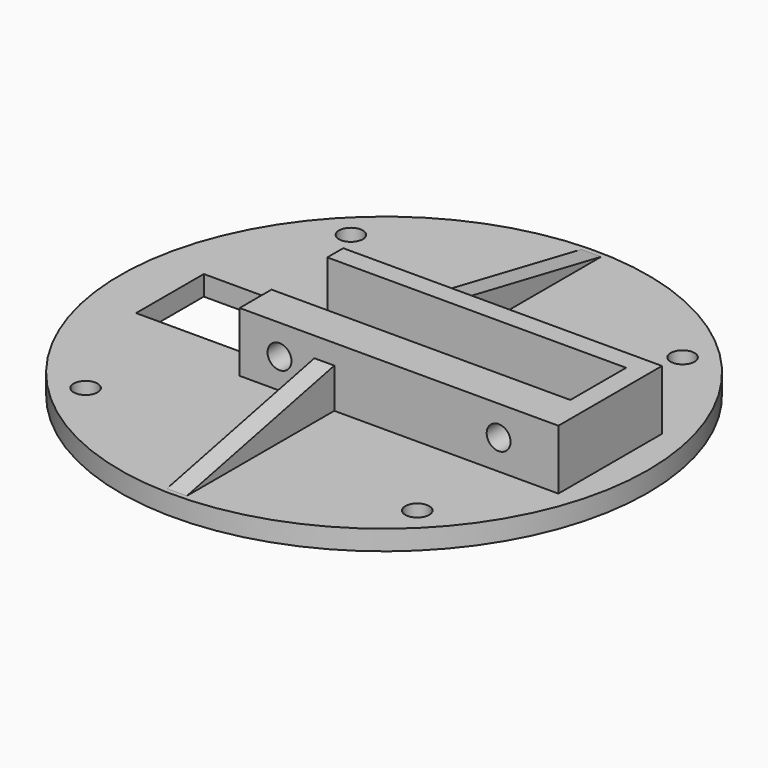
from build123d import *

# Parameters (mm, degrees)
F0_R     = 26.5
F0_R_2   = 1.2
F0_W     = 13
F0_H     = 8.5
F1_DEPTH = 2
F3_DEPTH = 6
F5_DEPTH = 1
F6_R     = 1.2
F7_DEPTH = 4


with BuildPart() as f1:
    # F0 (on Top) → F1 (new body)
    with BuildSketch(Plane.XY):
        Circle(F0_R)
        with Locations((-16.65, -16.65)):
            Circle(F0_R_2, mode=Mode.SUBTRACT)
        with Locations((16.65, -16.65)):
            Circle(F0_R_2, mode=Mode.SUBTRACT)
        with Locations((-15, 0)):
            Rectangle(F0_W, F0_H, mode=Mode.SUBTRACT)
        with Locations((-16.65, 16.65)):
            Circle(F0_R_2, mode=Mode.SUBTRACT)
        with Locations((16.65, 16.65)):
            Circle(F0_R_2, mode=Mode.SUBTRACT)
    extrude(amount=-F1_DEPTH)

    # F2 (on face) → F3 (join)
    with BuildSketch(Plane.XY):
        Polygon((23.5, 5.5), (-8.5, 5.5), (-8.5, 3.5), (21.5, 3.5), (21.5, -3.5), (-8.5, -3.5), (-8.5, -7.5), (23.5, -7.5), align=None)
    extrude(amount=F3_DEPTH)

    # F4 (on Right) → F5 (join, symmetric)
    with BuildSketch(Plane.YZ):
        Polygon((-26, 0), (-7.5, 0), (-7.5, 4), align=None)
        Polygon((5.5, 4), (5.5, 0), (26, 0), align=None)
    extrude(amount=F5_DEPTH, both=True)

    # F6 (on face) → F7 (cut, through all)
    with BuildSketch(Plane.XZ.offset(7.5)):
        with Locations((-4.5, 3)):
            Circle(F6_R)
        with Locations((17.5, 3)):
            Circle(F6_R)
    extrude(amount=-F7_DEPTH, mode=Mode.SUBTRACT)


solid = f1.part
